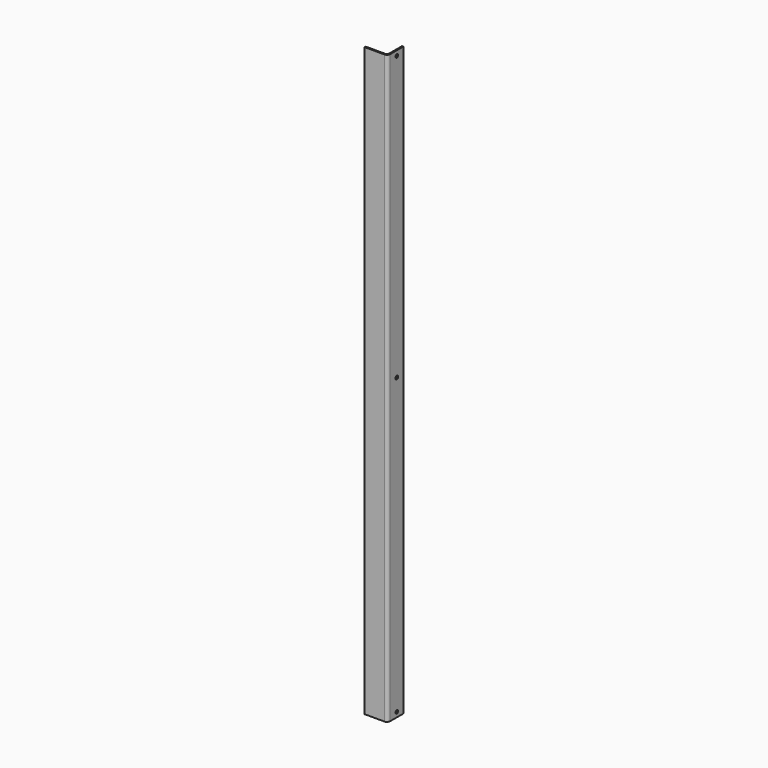
from build123d import *

# Parameters (mm, degrees)
PAD_DEPTH    = 895
SKETCH001_R  = 2.5
POCKET_DEPTH = 5


with BuildPart() as part:
    # Sketch → Pad (new body)
    with BuildSketch(Plane.XY):
        with BuildLine():
            Line((10.647392, 10.903953), (12.647392, 10.903953))
            Line((12.647392, 10.903953), (12.647392, -14.096047))
            ThreePointArc((7.647392, -19.096047), (11.182926, -17.631581), (12.647392, -14.096047))
            Line((7.647392, -19.096047), (-22.352608, -19.096047))
            Line((-22.352608, -19.096047), (-22.352608, -17.096047))
            Line((-22.352608, -17.096047), (7.647392, -17.096047))
            ThreePointArc((7.647392, -17.096047), (9.768712, -16.217368), (10.647392, -14.096047))
            Line((10.647392, -14.096047), (10.647392, 10.903953))
        make_face()
    extrude(amount=PAD_DEPTH)

    # Sketch001 → Pocket (cut)
    with BuildSketch(Plane(origin=(10.647392, 0, 0), x_dir=(0, -1, 0), z_dir=(-1, 0, 0))):
        with Locations((1.596047, 7.5)):
            Circle(SKETCH001_R)
        with Locations((1.596047, 456)):
            Circle(SKETCH001_R)
        with Locations((1.596047, 887.5)):
            Circle(SKETCH001_R)
    extrude(amount=-POCKET_DEPTH, mode=Mode.SUBTRACT)


solid = part.part
